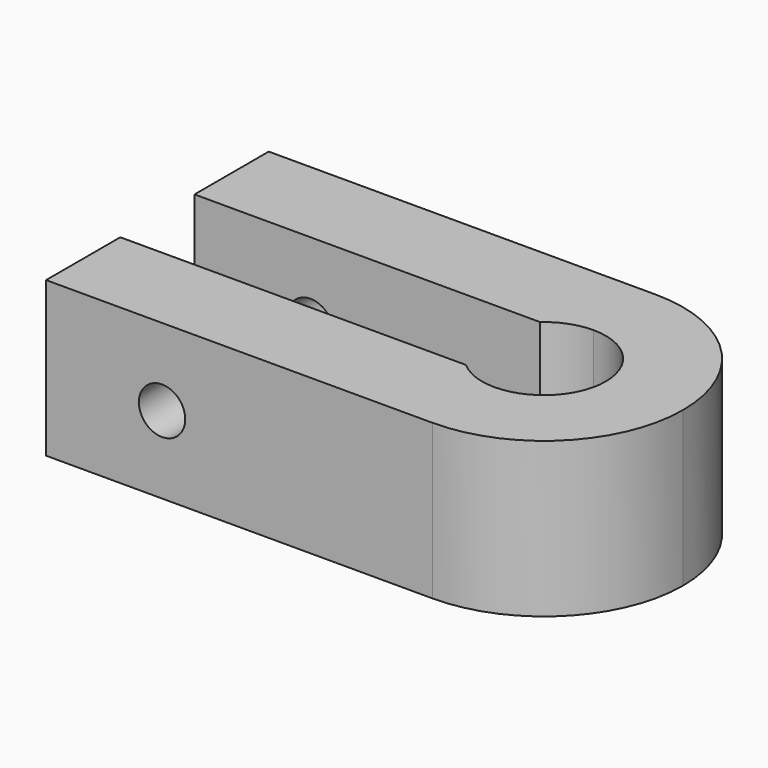
from build123d import *

# Parameters (mm, degrees)
F1_DEPTH = 10
F2_R     = 1.5
F3_DEPTH = 18.001


with BuildPart() as f1:
    # F0 (on Top) → F1 (new body)
    with BuildSketch(Plane.XY):
        with BuildLine():
            ThreePointArc((0, 4), (2.8284271247, 2.8284271247), (4, 0))
            ThreePointArc((4, 0), (2.8284271247, -2.8284271247), (0, -4))
            Line((0, -4), (0, -9))
            ThreePointArc((0, -9), (6.3639610307, -6.3639610307), (9, 0))
            ThreePointArc((9, 0), (6.3639610307, 6.3639610307), (0, 9))
            Line((0, 9), (0, 4))
        make_face()
        with BuildLine():
            ThreePointArc((-2.6457513111, 3), (-1.4142135624, 3.7416573868), (0, 4))
            Line((0, 4), (0, 9))
            ThreePointArc((0, 9), (-5.1961524227, 7.3484692283), (-8.4852813742, 3))
            Line((-8.4852813742, 3), (-2.6457513111, 3))
        make_face()
        with BuildLine():
            ThreePointArc((-8.4852813742, 3), (-5.1961524227, 7.3484692283), (0, 9))
            Line((0, 9), (-25, 9))
            Line((-25, 9), (-25, 3))
            Line((-25, 3), (-8.4852813742, 3))
        make_face()
        with BuildLine():
            Line((-25, -9), (0, -9))
            ThreePointArc((0, -9), (-5.1961524227, -7.3484692283), (-8.4852813742, -3))
            Line((-8.4852813742, -3), (-25, -3))
            Line((-25, -3), (-25, -9))
        make_face()
        with BuildLine():
            Line((0, -9), (0, -4))
            ThreePointArc((0, -4), (-1.4142135624, -3.7416573868), (-2.6457513111, -3))
            Line((-2.6457513111, -3), (-8.4852813742, -3))
            ThreePointArc((-8.4852813742, -3), (-5.1961524227, -7.3484692283), (0, -9))
        make_face()
    extrude(amount=F1_DEPTH)

    # F2 (on face) → F3 (cut, through all)
    with BuildSketch(Plane(origin=(0, 9, 0), x_dir=(-1, 0, 0), z_dir=(0, 1, 0))):
        with Locations((17.5, 5)):
            Circle(F2_R)
    extrude(amount=-F3_DEPTH, mode=Mode.SUBTRACT)


solid = f1.part
